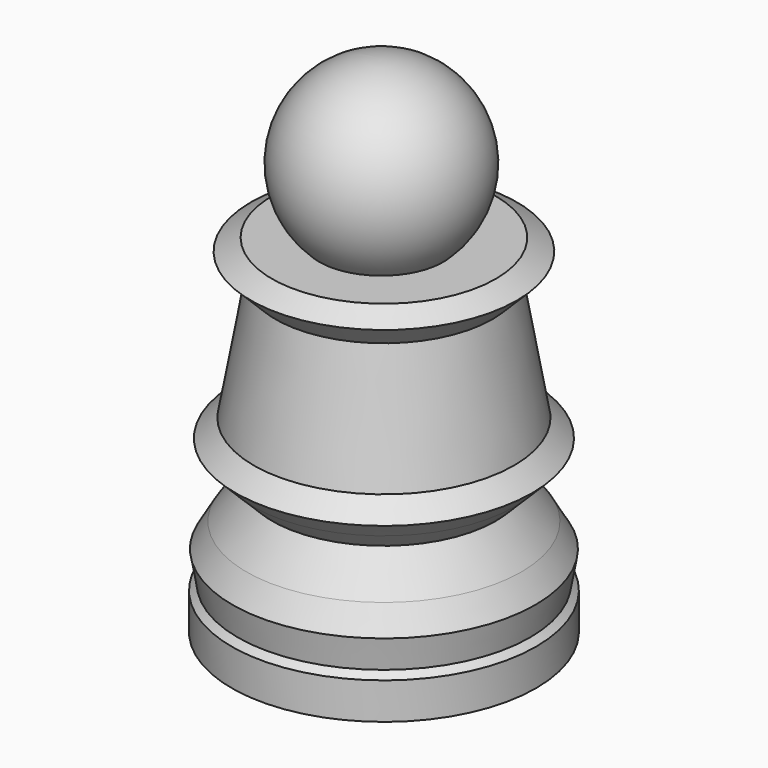
from build123d import *

# Parameters (mm, degrees)
F0_R       = 12.5
F1_DEPTH   = 3
F1_FACE_R  = 12.5
F2_DEPTH   = 0.5
F2_TAPER   = 45
F2_FACE_R  = 12
F3_DEPTH   = 2.5
F3_TAPER   = -10
F3_FACE_R  = 12.4408174518
F4_DEPTH   = 2
F4_TAPER   = 30
F4_FACE_R  = 11.2861169134
F5_DEPTH   = 3
F5_TAPER   = 35
F5_FACE_R  = 9.1854942988
F6_DEPTH   = 1.5
F6_TAPER   = -45
F6_FACE_R  = 10.6854942988
F7_DEPTH   = 1.5
F7_TAPER   = -45
F7_FACE_R  = 12.1854942988
F8_DEPTH   = 1.5
F8_TAPER   = 45
F8_FACE_R  = 10.6854942988
F9_DEPTH   = 10
F9_TAPER   = 10
F9_FACE_R  = 8.9222244917
F10_DEPTH  = 2
F10_TAPER  = -45
F10_FACE_R = 10.9222244917
F11_DEPTH  = 1
F11_TAPER  = 60


with BuildPart() as f1:
    # F0 (on Top) → F1 (new body)
    with BuildSketch(Plane.XY):
        with Locations((0, 0.2640842248)):
            Circle(F0_R)
    extrude(amount=F1_DEPTH)

    # F1_face (on face) → F2 (join)
    with BuildSketch(Plane(origin=(0, 0.2640842248, 3), x_dir=(1, 0, 0), z_dir=(0, 0, 1))):
        Circle(F1_FACE_R)
    extrude(amount=F2_DEPTH, taper=F2_TAPER)

    # F2_face (on face) → F3 (join)
    with BuildSketch(Plane(origin=(0, 0.2640842248, 3.5), x_dir=(1, 0, 0), z_dir=(0, 0, 1))):
        Circle(F2_FACE_R)
    extrude(amount=F3_DEPTH, taper=F3_TAPER)

    # F3_face (on face) → F4 (join)
    with BuildSketch(Plane(origin=(0, 0.2640842248, 6), x_dir=(1, 0, 0), z_dir=(0, 0, 1))):
        Circle(F3_FACE_R)
    extrude(amount=F4_DEPTH, taper=F4_TAPER)

    # F4_face (on face) → F5 (join)
    with BuildSketch(Plane(origin=(0, 0.2640842248, 8), x_dir=(1, 0, 0), z_dir=(0, 0, 1))):
        Circle(F4_FACE_R)
    extrude(amount=F5_DEPTH, taper=F5_TAPER)

    # F5_face (on face) → F6 (join)
    with BuildSketch(Plane(origin=(0, 0.2640842248, 11), x_dir=(1, 0, 0), z_dir=(0, 0, 1))):
        Circle(F5_FACE_R)
    extrude(amount=F6_DEPTH, taper=F6_TAPER)

    # F6_face (on face) → F7 (join)
    with BuildSketch(Plane(origin=(0, 0.2640842248, 12.5), x_dir=(1, 0, 0), z_dir=(0, 0, 1))):
        Circle(F6_FACE_R)
    extrude(amount=F7_DEPTH, taper=F7_TAPER)

    # F7_face (on face) → F8 (join)
    with BuildSketch(Plane(origin=(0, 0.2640842248, 14), x_dir=(1, 0, 0), z_dir=(0, 0, 1))):
        Circle(F7_FACE_R)
    extrude(amount=F8_DEPTH, taper=F8_TAPER)

    # F8_face (on face) → F9 (join)
    with BuildSketch(Plane(origin=(0, 0.2640842248, 15.5), x_dir=(1, 0, 0), z_dir=(0, 0, 1))):
        Circle(F8_FACE_R)
    extrude(amount=F9_DEPTH, taper=F9_TAPER)

    # F9_face (on face) → F10 (join)
    with BuildSketch(Plane(origin=(0, 0.2640842248, 25.5), x_dir=(1, 0, 0), z_dir=(0, 0, 1))):
        Circle(F9_FACE_R)
    extrude(amount=F10_DEPTH, taper=F10_TAPER)

    # F10_face (on face) → F11 (join)
    with BuildSketch(Plane(origin=(0, 0.2640842248, 27.5), x_dir=(1, 0, 0), z_dir=(0, 0, 1))):
        Circle(F10_FACE_R)
    extrude(amount=F11_DEPTH, taper=F11_TAPER)

    # F12 (on Front) → F13 (revolve)
    with BuildSketch(Plane.XZ):
        with BuildLine():
            ThreePointArc((0, 41.5), (-7.5, 34), (0, 26.5))
            Line((0, 26.5), (0, 41.5))
        make_face()
    revolve(axis=Axis((0, 0, 35.2392694949), (0, 0, 1)))


solid = f1.part
